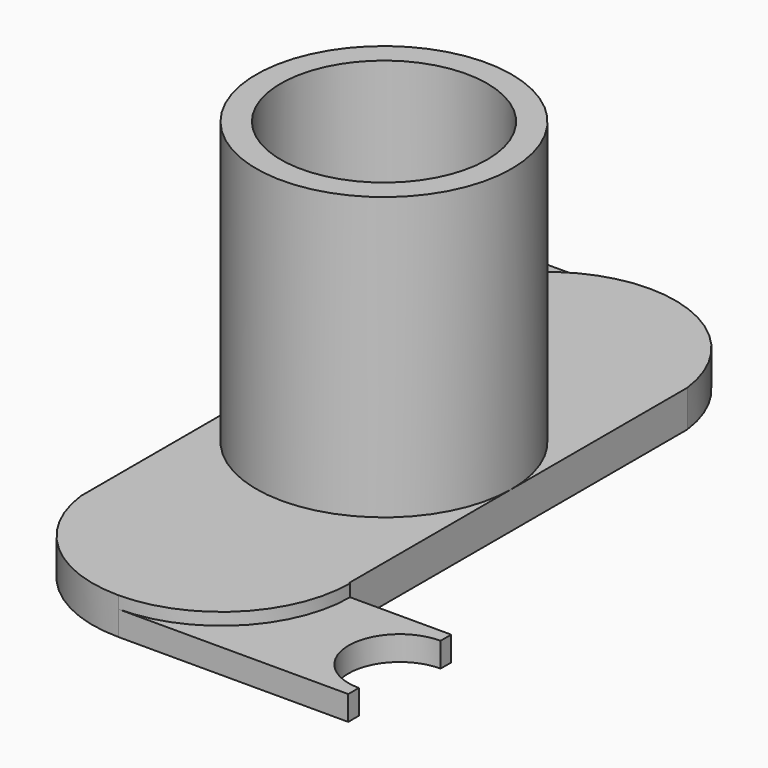
from build123d import *

# Parameters (mm, degrees)
F0_W     = 15.875
F0_H     = 25.273
F1_DEPTH = 1.524
F3_DEPTH = 0.762
F4_R     = 6.4135
F5_DEPTH = 17.526
F7_DEPTH = 25.4
F9_DEPTH = 25.4


with BuildPart() as f1:
    # F0 (on Top) → F1 (new body)
    with BuildSketch(Plane.XY):
        with BuildLine():
            Line((-7.9375, 13.6425291994), (-7.9375, 20.6375))
            Line((-7.9375, 20.6375), (-20.6375, 20.6375))
            Line((-20.6375, 20.6375), (-20.6375, 19.05))
            ThreePointArc((-20.6375, 19.05), (-18.931251337, 18.343248663), (-18.2245, 16.637))
            ThreePointArc((-18.2245, 16.637), (-18.931251337, 14.930751337), (-20.6375, 14.224))
            Line((-20.6375, 14.224), (-20.6375, 12.6365))
            Line((-20.6375, 12.6365), (-7.9375, 12.6365))
            Line((-7.9375, 12.6365), (-7.9375, 13.6425291994))
        make_face()
        with BuildLine():
            ThreePointArc((-7.9375, 13.6425291994), (-5.2899320117, 18.6392177438), (0, 20.6375))
            Line((0, 20.6375), (-7.9375, 20.6375))
            Line((-7.9375, 20.6375), (-7.9375, 13.6425291994))
        make_face()
        with BuildLine():
            ThreePointArc((7.9375, 13.6425291994), (5.2899320117, 18.6392177438), (0, 20.6375))
            ThreePointArc((0, 20.6375), (-5.2899320117, 18.6392177438), (-7.9375, 13.6425291994))
            Line((-7.9375, 13.6425291994), (-7.9375, 12.6365))
            Line((-7.9375, 12.6365), (7.9375, 12.6365))
            Line((7.9375, 12.6365), (7.9375, 13.6425291994))
        make_face()
        Rectangle(F0_W, F0_H)
        with BuildLine():
            Line((7.9375, -13.6425291994), (7.9375, -12.6365))
            Line((7.9375, -12.6365), (-7.9375, -12.6365))
            Line((-7.9375, -12.6365), (-7.9375, -13.6425291994))
            ThreePointArc((-7.9375, -13.6425291994), (-5.2899320117, -18.6392177438), (0, -20.6375))
            ThreePointArc((0, -20.6375), (5.2899320117, -18.6392177438), (7.9375, -13.6425291994))
        make_face()
        with BuildLine():
            Line((7.9375, -20.6375), (7.9375, -13.6425291994))
            ThreePointArc((7.9375, -13.6425291994), (5.2899320117, -18.6392177438), (0, -20.6375))
            Line((0, -20.6375), (7.9375, -20.6375))
        make_face()
        with BuildLine():
            Line((20.6375, -14.224), (20.6375, -12.6365))
            Line((20.6375, -12.6365), (7.9375, -12.6365))
            Line((7.9375, -12.6365), (7.9375, -13.6425291994))
            Line((7.9375, -13.6425291994), (7.9375, -20.6375))
            Line((7.9375, -20.6375), (20.6375, -20.6375))
            Line((20.6375, -20.6375), (20.6375, -19.05))
            ThreePointArc((20.6375, -19.05), (18.2245, -16.637), (20.6375, -14.224))
        make_face()
    extrude(amount=F1_DEPTH)

    # F2 (on face) → F3 (join)
    with BuildSketch(Plane.XY.offset(1.524)):
        with BuildLine():
            ThreePointArc((7.9375, 13.6425291994), (5.2899320117, 18.6392177438), (0, 20.6375))
            ThreePointArc((0, 20.6375), (-5.6575613563, 18.2940613563), (-8.001, 12.6365))
            Line((-8.001, 12.6365), (-7.9375, 12.6365))
            Line((-7.9375, 12.6365), (-7.9375, -13.6425291994))
            ThreePointArc((-7.9375, -13.6425291994), (-5.2899320117, -18.6392177438), (0, -20.6375))
            ThreePointArc((0, -20.6375), (5.6575613563, -18.2940613563), (8.001, -12.6365))
            Line((8.001, -12.6365), (7.9375, -12.6365))
            Line((7.9375, -12.6365), (7.9375, 13.6425291994))
        make_face()
    extrude(amount=F3_DEPTH)

    # F4 (on face) → F5 (join)
    with BuildSketch(Plane.XY.offset(2.286)):
        with BuildLine():
            ThreePointArc((-7.9375, -2.94e-08), (1.47e-08, -7.9375), (7.9375, 0))
            ThreePointArc((7.9375, 0), (-1.47e-08, 7.9375), (-7.9375, -2.94e-08))
        make_face()
        Circle(F4_R, mode=Mode.SUBTRACT)
    extrude(amount=F5_DEPTH)

    # F6 (on face) → F7 (cut)
    with BuildSketch(Plane.XY.offset(1.524)):
        with BuildLine():
            Line((-14.2875, 20.6375), (-20.6375, 20.6375))
            Line((-20.6375, 20.6375), (-20.6375, 19.05))
            ThreePointArc((-20.6375, 19.05), (-18.2245, 16.637), (-20.6375, 14.224))
            Line((-20.6375, 14.224), (-20.6375, 12.6365))
            Line((-20.6375, 12.6365), (-14.2875, 12.6365))
            Line((-14.2875, 12.6365), (-14.2875, 13.462))
            ThreePointArc((-14.2875, 13.462), (-17.4625, 16.637), (-14.2875, 19.812))
            Line((-14.2875, 19.812), (-14.2875, 20.6375))
        make_face()
        with BuildLine():
            Line((-14.2875, 13.462), (-14.2875, 19.812))
            ThreePointArc((-14.2875, 19.812), (-17.4625, 16.637), (-14.2875, 13.462))
        make_face()
        with BuildLine():
            ThreePointArc((-11.1125, 16.637), (-12.0424359697, 18.8820640303), (-14.2875, 19.812))
            Line((-14.2875, 19.812), (-14.2875, 13.462))
            ThreePointArc((-14.2875, 13.462), (-12.0424359697, 14.3919359697), (-11.1125, 16.637))
        make_face()
    extrude(amount=-F7_DEPTH, mode=Mode.SUBTRACT)

    # F8 (on face) → F9 (cut)
    with BuildSketch(Plane.XY.offset(1.524)):
        with BuildLine():
            ThreePointArc((14.2875, -13.462), (11.1125, -16.637), (14.2875, -19.812))
            Line((14.2875, -19.812), (14.2875, -13.462))
        make_face()
        with BuildLine():
            Line((14.2875, -13.462), (14.2875, -19.812))
            ThreePointArc((14.2875, -19.812), (16.5325640303, -18.8820640303), (17.4625, -16.637))
            ThreePointArc((17.4625, -16.637), (16.5325640303, -14.3919359697), (14.2875, -13.462))
        make_face()
        with BuildLine():
            Line((14.2875, -20.6375), (20.6375, -20.6375))
            Line((20.6375, -20.6375), (20.6375, -19.05))
            ThreePointArc((20.6375, -19.05), (18.2245, -16.637), (20.6375, -14.224))
            Line((20.6375, -14.224), (20.6375, -12.6365))
            Line((20.6375, -12.6365), (14.2875, -12.6365))
            Line((14.2875, -12.6365), (14.2875, -13.462))
            ThreePointArc((14.2875, -13.462), (16.5325640303, -14.3919359697), (17.4625, -16.637))
            ThreePointArc((17.4625, -16.637), (16.5325640303, -18.8820640303), (14.2875, -19.812))
            Line((14.2875, -19.812), (14.2875, -20.6375))
        make_face()
    extrude(amount=-F9_DEPTH, mode=Mode.SUBTRACT)


solid = f1.part
